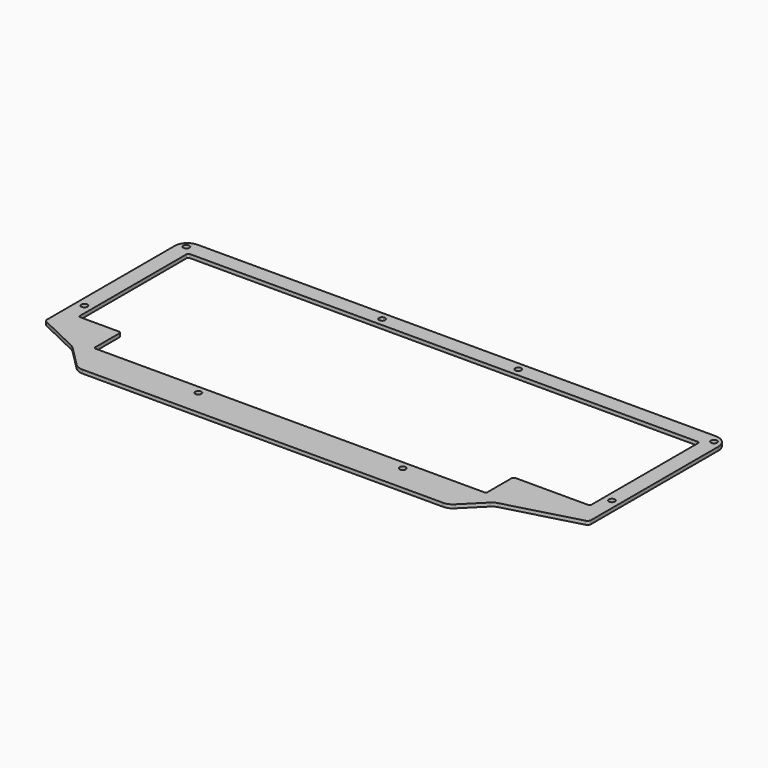
from build123d import *

# Parameters (mm, degrees)
PAD001_DEPTH  = 2
FILLET004_R   = 7
FILLET013_R   = 2
FILLET005_R   = 1
FILLET006_R   = 1.2
SKETCH014_R   = 1.7
HOLE003_DEPTH = 25


with BuildPart() as part:
    # Sketch001 → Pad001 (new body)
    with BuildSketch(Plane.XY):
        Polygon((-152.075, 56.825), (152.075, 56.825), (152.075, -40.775), (108.5, -52.5375), (94.2125, -66.825), (-113.2625, -66.825), (-127.55, -52.5375), (-152.075, -40.775), align=None)
        Polygon((143.075, 47.825), (-143.075, 47.825), (-143.075, -28.775), (-119.2625, -28.775), (-119.2625, -47.825), (100.2125, -47.825), (100.2125, -28.775), (143.075, -28.775), align=None, mode=Mode.SUBTRACT)
    extrude(amount=-PAD001_DEPTH)

    # Fillet004
    fillet004_edges = [part.edges().sort_by_distance(p)[0] for p in [
        (152.075, 56.825, -1),
        (108.5, -52.5375, -1),
        (94.2125, -66.825, -1),
        (-113.2625, -66.825, -1),
        (-127.55, -52.5375, -1),
        (-152.075, 56.825, -1),
    ]]
    fillet(fillet004_edges, radius=FILLET004_R)

    # Fillet013
    fillet013_edges = [part.edges().sort_by_distance(p)[0] for p in [
        (-152.075, -40.775, -1),
        (152.075, -40.775, -1),
    ]]
    fillet(fillet013_edges, radius=FILLET013_R)

    # Fillet005
    fillet005_edges = [part.edges().sort_by_distance(p)[0] for p in [
        (143.075, 47.825, -1),
        (143.075, -28.775, -1),
        (100.2125, -47.825, -1),
        (-143.075, -28.775, -1),
        (-119.2625, -47.825, -1),
        (-143.075, 47.825, -1),
    ]]
    fillet(fillet005_edges, radius=FILLET005_R)

    # Fillet006
    fillet006_edges = [part.edges().sort_by_distance(p)[0] for p in [
        (-119.2625, -28.775, -1),
        (100.2125, -28.775, -1),
    ]]
    fillet(fillet006_edges, radius=FILLET006_R)

    # Sketch014 (on Face1 of Fillet006) → Hole003 (cut)
    with BuildSketch(Plane.XY):
        with Locations((147.575, 52.325)):
            Circle(SKETCH014_R)
        with Locations((147.575, -19.05)):
            Circle(SKETCH014_R)
        with Locations((57.15, -52.325)):
            Circle(SKETCH014_R)
        with Locations((-57.15, -52.325)):
            Circle(SKETCH014_R)
        with Locations((-147.575, -19.05)):
            Circle(SKETCH014_R)
        with Locations((-147.575, 52.325)):
            Circle(SKETCH014_R)
        with Locations((-38.1, 52.325)):
            Circle(SKETCH014_R)
        with Locations((38.1, 52.325)):
            Circle(SKETCH014_R)
    extrude(amount=-HOLE003_DEPTH, mode=Mode.SUBTRACT)


solid = part.part
